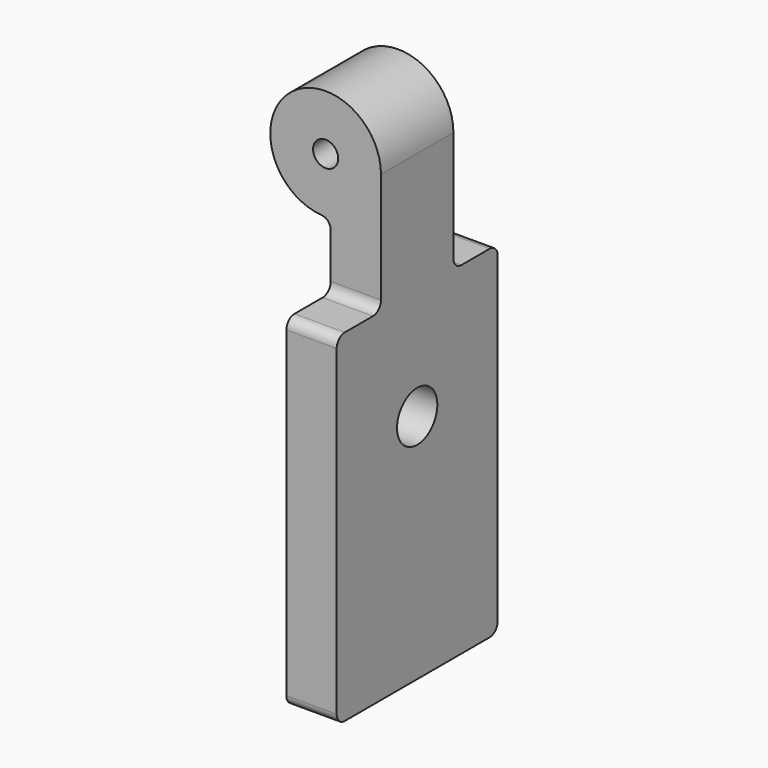
from build123d import *

# Parameters (mm, degrees)
F0_R     = 5.5
F1_DEPTH = 4.5
F3_DEPTH = 9
F4_W     = 20
F4_H     = 34
F5_DEPTH = 5
F7_D     = 2.5
F9_D     = 5
F10_R    = 1


with BuildPart() as f1:
    # F0 (on Front) → F1 (new body, symmetric)
    with BuildSketch(Plane.XZ):
        Circle(F0_R)
    extrude(amount=F1_DEPTH, both=True)

    # F2 (on face) → F3 (join, through all)
    with BuildSketch(Plane.XZ.offset(4.5)):
        with BuildLine():
            Line((5.5, -46), (5.5, 0))
            ThreePointArc((5.5, 0), (4.0620192023, -3.7080992435), (0.5, -5.4772255751))
            Line((0.5, -5.4772255751), (0.5, -46))
            Line((0.5, -46), (5.5, -46))
        make_face()
    extrude(amount=-F3_DEPTH)

    # F4 (on face) → F5 (join, through all)
    with BuildSketch(Plane.YZ.offset(5.5)):
        with Locations((0, -29)):
            Rectangle(F4_W, F4_H)
    extrude(amount=-F5_DEPTH)

    # F7 (through all)
    with Locations(Plane.XZ.offset(4.5)):
        with Locations((0, 0)):
            Hole(F7_D / 2)

    # F9 (through all)
    with Locations(Plane.YZ.offset(5.5)):
        with Locations((0, -23)):
            Hole(F9_D / 2)

    # F10
    f10_edges = [f1.edges().sort_by_distance(p)[0] for p in [
        (0.5, 0, -5.477226),
        (3, -4.5, -12),
        (3, 4.5, -12),
        (3, 10, -12),
        (3, -10, -12),
        (3, -10, -46),
        (3, 10, -46),
    ]]
    fillet(f10_edges, radius=F10_R)


solid = f1.part
